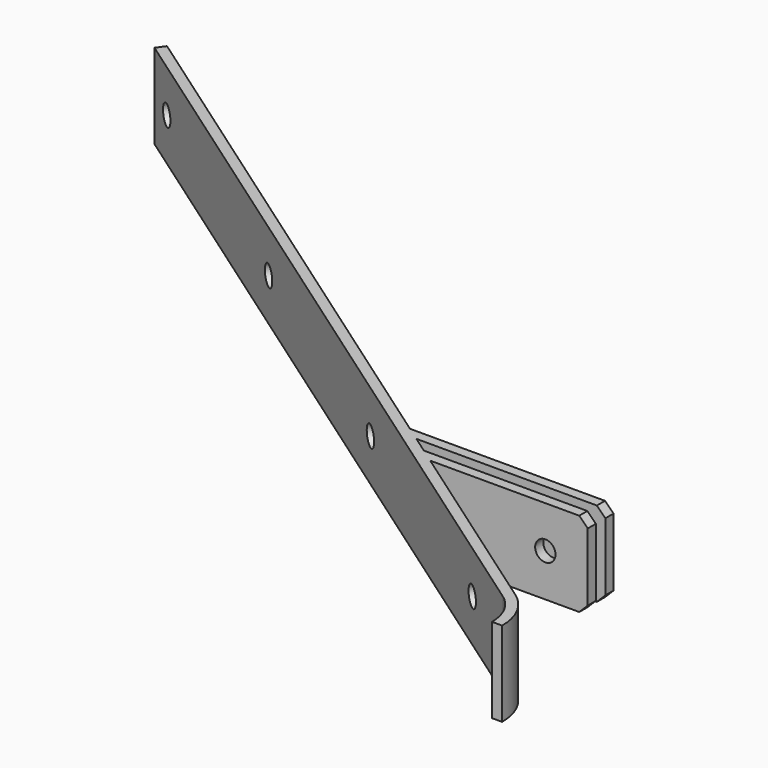
from build123d import *

# Parameters (mm, degrees)
PAD_DEPTH           = 50
PAD001_DEPTH        = 50
CHAMFER_SIZE        = 5
SKETCH002_R         = 6
POCKET_DEPTH        = 30
SKETCH015_R         = 6
POCKET005_DEPTH     = 292.6279206635
LINEARPATTERN_COUNT = 4
LINEARPATTERN_PITCH = 166.6666666667


with BuildPart() as part:
    # Sketch → Pad (new body)
    with BuildSketch(Plane.XY):
        with BuildLine():
            Line((-447.460817474, 354.8217734667), (19.5015988359, 27.8511695058))
            ThreePointArc((34, 0), (30.1583683281, 15.69945285), (19.5015988359, 27.8511695058))
            Line((28, 0), (34, 0))
            ThreePointArc((28, 0), (24.836303329, 12.9289611706), (16.0601402178, 22.9362572401))
            Line((16.0601402178, 22.9362572401), (-450.9022760922, 349.906861201))
            Line((-450.9022760922, 349.906861201), (-447.460817474, 354.8217734667))
        make_face()
    extrude(amount=PAD_DEPTH)

    # Sketch001 → Pad001 (join)
    with BuildSketch(Plane.XY):
        Polygon((-94.6057566753, 107.75), (-103.1746447158, 113.75), (-1.7405688034, 113.75), (-1.7405688034, 107.75), align=None)
        Polygon((-113.171680763, 120.75), (-121.7405688034, 126.75), (-1.7405688034, 126.75), (-1.7405688034, 120.75), align=None)
    extrude(amount=PAD001_DEPTH)

    # Chamfer
    chamfer_edges = [part.edges().sort_by_distance(p)[0] for p in [
        (-1.740569, 123.75, 50),
        (-1.740569, 110.75, 50),
        (-1.740569, 110.75, 0),
        (-1.740569, 123.75, 0),
    ]]
    chamfer(chamfer_edges, length=CHAMFER_SIZE)

    # Sketch002 (on Face1 of Chamfer) → Pocket (cut)
    with BuildSketch(Plane(origin=(0, 126.75, 0), x_dir=(-1, 0, 0), z_dir=(0, 1, 0))):
        with Locations((26.7405688034, 25.24131)):
            Circle(SKETCH002_R)
    extrude(amount=-POCKET_DEPTH, mode=Mode.SUBTRACT)

    # Sketch015 → Pocket005 (cut, through all)
    with BuildSketch(Plane(origin=(19.5015988359, 27.8511695058, 0), x_dir=(-0.8191520443, 0.5735764364, 0), z_dir=(0.5735764364, 0.8191520443, 0))):
        with Locations((550.0558517379, 25)):
            Circle(SKETCH015_R)
    pocket005 = extrude(amount=-POCKET005_DEPTH, mode=Mode.SUBTRACT)

    # LinearPattern: Pocket005 ×4
    with Locations(*[Vector(0.8191520443, -0.5735764364, 0) * (i * LINEARPATTERN_PITCH) for i in range(1, LINEARPATTERN_COUNT)]):
        add(pocket005, mode=Mode.SUBTRACT)


solid = part.part
